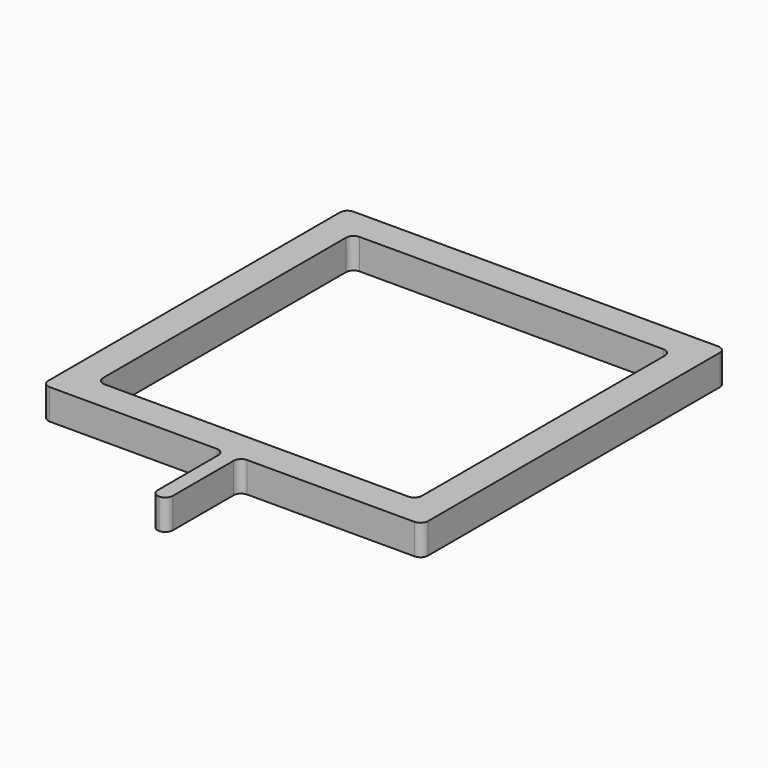
from build123d import *

# Parameters (mm, degrees)
F1_DEPTH = 25.4


with BuildPart() as f1:
    # F0 (on Top) → F1 (new body)
    with BuildSketch(Plane.XY):
        with BuildLine():
            Line((12.7, -158.75), (152.4, -158.75))
            ThreePointArc((152.4, -158.75), (156.890128, -156.890128), (158.75, -152.4))
            Line((158.75, -152.4), (158.75, 152.4))
            ThreePointArc((158.75, 152.4), (156.890128, 156.890128), (152.4, 158.75))
            Line((152.4, 158.75), (-152.4, 158.75))
            ThreePointArc((-152.4, 158.75), (-156.890128, 156.890128), (-158.75, 152.4))
            Line((-158.75, 152.4), (-158.75, -152.4))
            ThreePointArc((-158.75, -152.4), (-156.890128, -156.890128), (-152.4, -158.75))
            Line((-152.4, -158.75), (-12.7, -158.75))
            ThreePointArc((-12.7, -158.75), (-8.209872, -160.609872), (-6.35, -165.1))
            Line((-6.35, -165.1), (-6.35, -228.6))
            ThreePointArc((-6.35, -228.6), (-4.490128, -233.090128), (0, -234.95))
            ThreePointArc((0, -234.95), (4.490128, -233.090128), (6.35, -228.6))
            Line((6.35, -228.6), (6.35, -165.1))
            ThreePointArc((6.35, -165.1), (8.209872, -160.609872), (12.7, -158.75))
        make_face()
        with BuildLine():
            ThreePointArc((133.35, -127), (131.490128, -131.490128), (127, -133.35))
            Line((127, -133.35), (-127, -133.35))
            ThreePointArc((-127, -133.35), (-131.490128, -131.490128), (-133.35, -127))
            Line((-133.35, -127), (-133.35, 127))
            ThreePointArc((-133.35, 127), (-131.490128, 131.490128), (-127, 133.35))
            Line((-127, 133.35), (127, 133.35))
            ThreePointArc((127, 133.35), (131.490128, 131.490128), (133.35, 127))
            Line((133.35, 127), (133.35, -127))
        make_face(mode=Mode.SUBTRACT)
    extrude(amount=F1_DEPTH)


solid = f1.part
